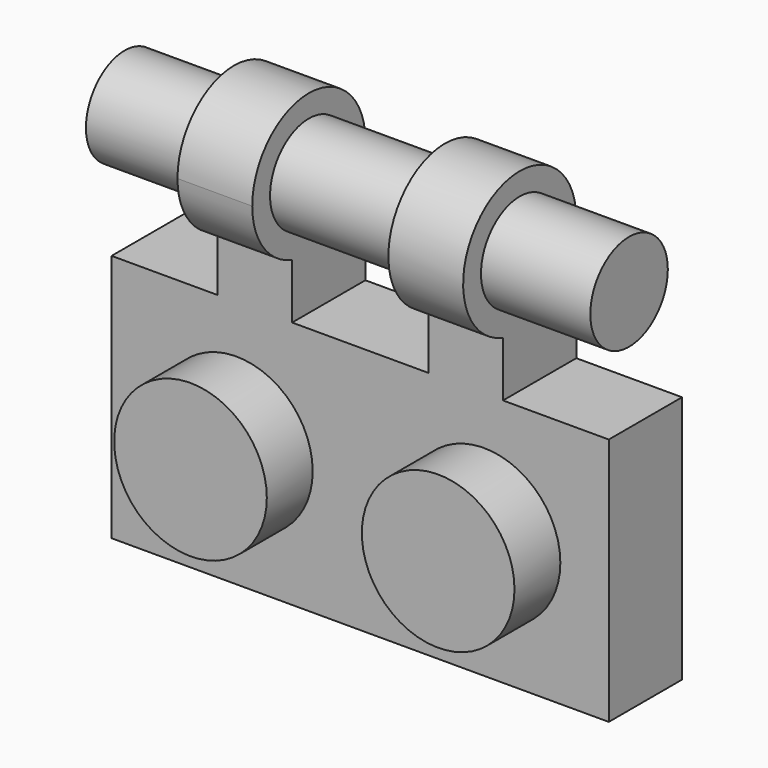
from build123d import *

# Parameters (mm, degrees)
F0_W      = 15.96
F0_H      = 7.98
F1_DEPTH  = 2.94
F2_R      = 2.45
F3_DEPTH  = 1.84
F4_T      = -1.56
F5_R      = 1.535
F5_R_2    = 0.765
F6_DEPTH  = 1
F8_DEPTH  = 1.67
F10_DEPTH = 2.4
F12_DEPTH = 2.4
F13_R     = 1.555
F14_DEPTH = 10.28
F15_R     = 1.555
F16_DEPTH = 3.51


with BuildPart() as f1:
    # F0 (on Front) → F1 (new body)
    with BuildSketch(Plane.XZ):
        with Locations((-6.8829571828, 18.429612627)):
            Rectangle(F0_W, F0_H)
    extrude(amount=F1_DEPTH)

    # F2 (on face) → F3 (join)
    with BuildSketch(Plane.XZ.offset(2.94)):
        with Locations((-10.8579571828, 18.429612627)):
            Circle(F2_R)
        with Locations((-2.9079571828, 18.429612627)):
            Circle(F2_R)
    extrude(amount=F3_DEPTH)

    # F4
    f4_openings = [f1.faces().sort_by_distance(p)[0] for p in [
        (-6.882957, 0, 18.429613),
    ]]
    offset(amount=F4_T, openings=f4_openings, kind=Kind.INTERSECTION)

    # F5 (on face) → F6 (join)
    with BuildSketch(Plane(origin=(0, -1.38, 0), x_dir=(-1, 0, 0), z_dir=(0, 1, 0))):
        with Locations((6.8729571828, 18.414612627)):
            Circle(F5_R)
        with Locations((6.8729571828, 18.414612627)):
            Circle(F5_R_2, mode=Mode.SUBTRACT)
    extrude(amount=F6_DEPTH)

    # F7 (on face) → F8 (join)
    with BuildSketch(Plane.XY.offset(22.419612627)):
        Polygon((-9.0679571828, -2.94), (-9.0679571828, -1.47), (-9.0679571828, 0), (-11.4679571828, 0), (-11.4679571828, -2.94), align=None)
        Polygon((-4.6979571828, 0), (-4.6979571828, -1.47), (-4.6979571828, -2.94), (-2.2979571828, -2.94), (-2.2979571828, 0), align=None)
    extrude(amount=F8_DEPTH)

    # F9 (on face) → F10 (join)
    with BuildSketch(Plane.YZ.offset(-2.2979571828)):
        with BuildLine():
            Line((-2.27, 24.089612627), (0, 24.089612627))
            Line((0, 24.089612627), (0, 26.359612627))
            ThreePointArc((0, 26.359612627), (-0.6648676067, 24.7544802337), (-2.27, 24.089612627))
        make_face()
        with BuildLine():
            ThreePointArc((-2.94, 24.1907419532), (-2.6087946061, 24.115037341), (-2.27, 24.089612627))
            ThreePointArc((-2.27, 24.089612627), (-0.6648676067, 24.7544802337), (0, 26.359612627))
            ThreePointArc((0, 26.359612627), (-3.6175904422, 28.1863309961), (-2.94, 24.1907419532))
        make_face()
        with BuildLine():
            ThreePointArc((-0.715, 26.359612627), (-1.1704489553, 25.2600615823), (-2.27, 24.804612627))
            ThreePointArc((-2.27, 24.804612627), (-3.3695510447, 27.4591636718), (-0.715, 26.359612627))
        make_face(mode=Mode.SUBTRACT)
        with BuildLine():
            Line((-2.94, 24.089612627), (-2.27, 24.089612627))
            ThreePointArc((-2.27, 24.089612627), (-2.6087946061, 24.115037341), (-2.94, 24.1907419532))
            Line((-2.94, 24.1907419532), (-2.94, 24.089612627))
        make_face()
    extrude(amount=-F10_DEPTH)

    # F11 (on face) → F12 (join)
    with BuildSketch(Plane(origin=(-11.4679571828, 0, 0), x_dir=(0, -1, 0), z_dir=(-1, 0, 0))):
        with BuildLine():
            ThreePointArc((0, 26.359612627), (0.6648676067, 24.7544802337), (2.27, 24.089612627))
            ThreePointArc((2.27, 24.089612627), (2.6087946061, 24.115037341), (2.94, 24.1907419532))
            ThreePointArc((2.94, 24.1907419532), (4.0967183691, 25.0120221848), (4.54, 26.359612627))
            ThreePointArc((4.54, 26.359612627), (2.27, 28.629612627), (0, 26.359612627))
        make_face()
        with BuildLine():
            ThreePointArc((2.94, 24.1907419532), (2.6087946061, 24.115037341), (2.27, 24.089612627))
            Line((2.27, 24.089612627), (2.94, 24.089612627))
            Line((2.94, 24.089612627), (2.94, 24.1907419532))
        make_face()
        with BuildLine():
            Line((0, 26.359612627), (0, 24.089612627))
            Line((0, 24.089612627), (2.27, 24.089612627))
            ThreePointArc((2.27, 24.089612627), (0.6648676067, 24.7544802337), (0, 26.359612627))
        make_face()
    extrude(amount=-F12_DEPTH)

    # F13 (on face) → F14 (join)
    with BuildSketch(Plane.YZ.offset(-9.0679571828)):
        with Locations((-2.27, 26.359612627)):
            Circle(F13_R)
    extrude(amount=F14_DEPTH)

    # F15 (on face) → F16 (join)
    with BuildSketch(Plane(origin=(-11.4679571828, 0, 0), x_dir=(0, -1, 0), z_dir=(-1, 0, 0))):
        with Locations((2.27, 26.359612627)):
            Circle(F15_R)
    extrude(amount=F16_DEPTH)


solid = f1.part
